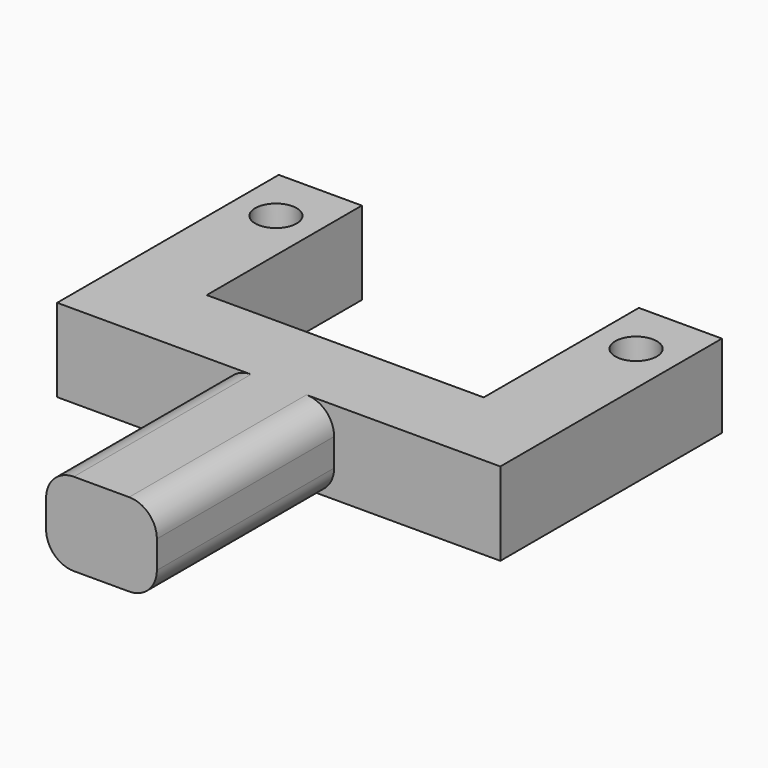
from build123d import *

# Parameters (mm, degrees)
F0_W     = 38.1
F0_H     = 38.1
F1_DEPTH = 38.1
F2_R     = 12.7
F4_DEPTH = 38.101


with BuildPart() as f1:
    # F0 (on Top) → F1 (new body)
    with BuildSketch(Plane.XY):
        Polygon((-50.8, 0), (0, 0), (0, 101.6), (0, 139.7), (-50.8, 139.7), (-50.8, 101.6), align=None)
        with Locations((19.05, 120.65)):
            Rectangle(F0_W, F0_H)
        with Locations((-69.85, 120.65)):
            Rectangle(F0_W, F0_H)
        Polygon((38.1, 139.7), (38.1, 101.6), (76.2, 101.6), (76.2, 228.6), (38.1, 228.6), align=None)
        Polygon((-127, 101.6), (-88.9, 101.6), (-88.9, 139.7), (-88.9, 228.6), (-127, 228.6), align=None)
    extrude(amount=F1_DEPTH)

    # F2
    f2_edges = [f1.edges().sort_by_distance(p)[0] for p in [
        (0, 50.8, 38.1),
        (-50.8, 50.8, 38.1),
        (-50.8, 50.8, 0),
        (0, 50.8, 0),
    ]]
    fillet(f2_edges, radius=F2_R)

    # F3 (on face) → F4 (cut, through all)
    with BuildSketch(Plane.XY.offset(38.1)):
        with BuildLine():
            ThreePointArc((-117.475, 203.2), (-107.95, 193.675), (-98.425, 203.2))
            Line((-98.425, 203.2), (-117.475, 203.2))
        make_face()
        with BuildLine():
            Line((66.675, 203.2), (47.625, 203.2))
            ThreePointArc((47.625, 203.2), (57.15, 193.675), (66.675, 203.2))
        make_face()
        with BuildLine():
            ThreePointArc((66.675, 203.2), (57.15, 212.725), (47.625, 203.2))
            Line((47.625, 203.2), (66.675, 203.2))
        make_face()
        with BuildLine():
            Line((-117.475, 203.2), (-98.425, 203.2))
            ThreePointArc((-98.425, 203.2), (-107.95, 212.725), (-117.475, 203.2))
        make_face()
    extrude(amount=-F4_DEPTH, mode=Mode.SUBTRACT)


solid = f1.part
